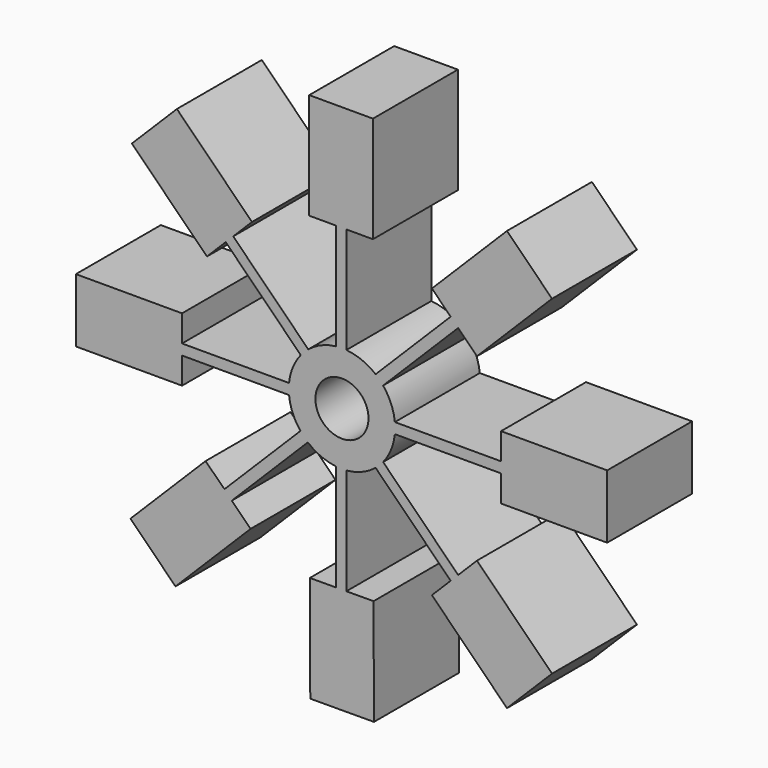
from build123d import *

# Parameters (mm, degrees)
F0_R     = 6.35
F1_DEPTH = 25.4


with BuildPart() as f1:
    # F0 (on Front) → F1 (new body)
    with BuildSketch(Plane.XZ):
        with BuildLine():
            ThreePointArc((5.248256, 44.835744), (5.295899, 45.46995), (5.311793, 46.105744))
            ThreePointArc((5.311793, 46.105744), (5.295899, 46.741538), (5.248256, 47.375744))
            ThreePointArc((5.248256, 47.375744), (4.342918, 50.975843), (2.43705, 54.161439))
            ThreePointArc((2.43705, 54.161439), (1.584924, 55.103204), (0.64316, 55.955329))
            ThreePointArc((0.64316, 55.955329), (-2.638838, 57.900674), (-6.35, 58.785633))
            ThreePointArc((-6.35, 58.785633), (-7.621041, 58.828366), (-8.89, 58.744007))
            ThreePointArc((-8.89, 58.744007), (-12.378162, 57.821167), (-15.467044, 55.956302))
            ThreePointArc((-15.467044, 55.956302), (-16.409997, 55.103204), (-17.263095, 54.160251))
            ThreePointArc((-17.263095, 54.160251), (-19.168285, 50.975134), (-20.07333, 47.375744))
            ThreePointArc((-20.07333, 47.375744), (-20.136867, 46.105744), (-20.07333, 44.835744))
            ThreePointArc((-20.07333, 44.835744), (-19.194096, 41.29914), (-17.348475, 38.156799))
            ThreePointArc((-17.348475, 38.156799), (-16.505241, 37.204547), (-15.571152, 36.341238))
            ThreePointArc((-15.571152, 36.341238), (-12.440272, 34.416841), (-8.89, 33.467481))
            ThreePointArc((-8.89, 33.467481), (-7.621041, 33.383122), (-6.35, 33.425855))
            ThreePointArc((-6.35, 33.425855), (-2.63955, 34.310526), (0.64197, 36.255186))
            ThreePointArc((0.64197, 36.255186), (1.584923, 37.108284), (2.438021, 38.051237))
            ThreePointArc((2.438021, 38.051237), (4.343211, 41.236354), (5.248256, 44.835744))
        make_face()
        with Locations((-7.412537, 46.105744)):
            Circle(F0_R, mode=Mode.SUBTRACT)
        with BuildLine():
            ThreePointArc((5.248256, 47.375744), (5.295899, 46.741538), (5.311793, 46.105744))
            ThreePointArc((5.311793, 46.105744), (5.295899, 45.46995), (5.248256, 44.835744))
            Line((5.248256, 44.835744), (30.648256, 44.835744))
            Line((30.648256, 44.835744), (30.648256, 47.375744))
            Line((30.648256, 47.375744), (5.248256, 47.375744))
        make_face()
        with BuildLine():
            ThreePointArc((0.64316, 55.955329), (1.584924, 55.103204), (2.43705, 54.161439))
            Line((2.43705, 54.161439), (20.397562, 72.121951))
            Line((20.397562, 72.121951), (18.603672, 73.915842))
            Line((18.603672, 73.915842), (0.64316, 55.955329))
        make_face()
        Polygon((30.648256, 53.725744), (30.648256, 47.375744), (30.648256, 44.835744), (30.648256, 38.485744), (56.048256, 38.485744), (56.048256, 53.725744), align=None)
        with BuildLine():
            Line((20.398534, 20.090725), (2.438021, 38.051237))
            ThreePointArc((2.438021, 38.051237), (1.584923, 37.108284), (0.64197, 36.255186))
            Line((0.64197, 36.255186), (18.602482, 18.294674))
            Line((18.602482, 18.294674), (20.398534, 20.090725))
        make_face()
        Polygon((18.603672, 73.915842), (20.397562, 72.121951), (24.88769, 67.631823), (42.848202, 85.592336), (32.071895, 96.368643), (14.113544, 78.40597), align=None)
        Polygon((24.888662, 24.580853), (20.398534, 20.090725), (18.602482, 18.294674), (14.112354, 13.804545), (32.072867, -4.155967), (42.849174, 6.620341), align=None)
        with BuildLine():
            ThreePointArc((-8.89, 58.744007), (-7.621041, 58.828366), (-6.35, 58.785633))
            Line((-6.35, 58.785633), (-6.35, 84.185633))
            Line((-6.35, 84.185633), (-8.89, 84.185633))
            Line((-8.89, 84.185633), (-8.89, 58.744007))
        make_face()
        with BuildLine():
            Line((-6.35, 7.970723), (-6.35, 33.425855))
            ThreePointArc((-6.35, 33.425855), (-7.621041, 33.383122), (-8.89, 33.467481))
            Line((-8.89, 33.467481), (-8.89, 7.960707))
            Line((-8.89, 7.960707), (-6.35, 7.970723))
        make_face()
        Polygon((-8.89, 84.185633), (-6.35, 84.185633), (0, 84.185633), (0, 109.585633), (-15.24, 109.585633), (-15.24, 84.185633), align=None)
        Polygon((0.149825, 7.996355), (-6.35, 7.970723), (-8.89, 7.960707), (-15.090057, 7.936257), (-14.989892, -17.463546), (0.249989, -17.403447), align=None)
        with BuildLine():
            ThreePointArc((-17.263095, 54.160251), (-16.409997, 55.103204), (-15.467044, 55.956302))
            Line((-15.467044, 55.956302), (-33.427556, 73.916814))
            Line((-33.427556, 73.916814), (-35.223607, 72.120763))
            Line((-35.223607, 72.120763), (-17.263095, 54.160251))
        make_face()
        with BuildLine():
            Line((-33.768212, 18.144177), (-15.571152, 36.341238))
            ThreePointArc((-15.571152, 36.341238), (-16.505241, 37.204547), (-17.348475, 38.156799))
            Line((-17.348475, 38.156799), (-35.505386, 19.999888))
            Line((-35.505386, 19.999888), (-33.768212, 18.144177))
        make_face()
        Polygon((-35.223607, 72.120763), (-33.427556, 73.916814), (-28.938781, 78.408295), (-46.899293, 96.368807), (-57.675469, 85.592369), (-39.714957, 67.631857), align=None)
        Polygon((-29.278084, 13.654049), (-33.768212, 18.144177), (-35.505386, 19.999888), (-40.054392, 24.430356), (-58.014904, 6.469844), (-47.238596, -4.306464), align=None)
        with BuildLine():
            ThreePointArc((-20.07333, 44.835744), (-20.136867, 46.105744), (-20.07333, 47.375744))
            Line((-20.07333, 47.375744), (-45.667761, 47.375744))
            Line((-45.667761, 47.375744), (-45.667761, 44.835744))
            Line((-45.667761, 44.835744), (-20.07333, 44.835744))
        make_face()
        Polygon((-45.667761, 44.835744), (-45.667761, 47.375744), (-45.667761, 53.725744), (-71.067761, 53.725744), (-71.067761, 38.485744), (-45.667761, 38.485744), align=None)
    extrude(amount=F1_DEPTH)


solid = f1.part
